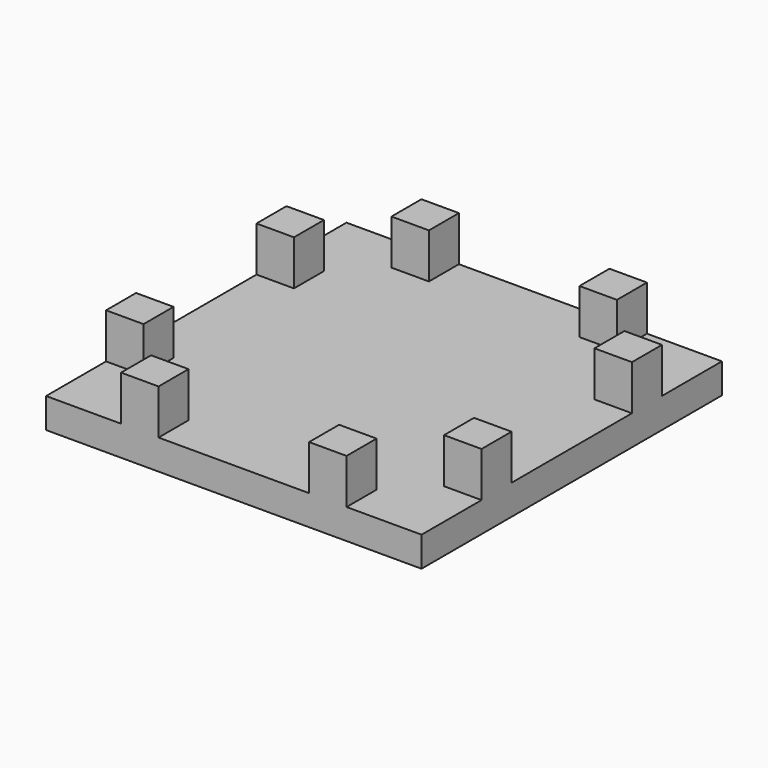
from build123d import *

# Parameters (mm, degrees)
F0_W     = 31.8008
F0_H     = 31.8008
F1_DEPTH = 2.54
F2_W     = 3.175
F2_H     = 3.175
F3_DEPTH = 3.81


with BuildPart() as f1:
    # F0 (on Top) → F1 (new body)
    with BuildSketch(Plane.XY):
        Rectangle(F0_W, F0_H)
    extrude(amount=-F1_DEPTH)

    # F2 (on Top) → F3 (join)
    with BuildSketch(Plane.XY):
        with Locations((-7.9629, 14.3129)):
            Rectangle(F2_W, F2_H)
        with Locations((-14.3129, 7.9629)):
            Rectangle(F2_W, F2_H)
        with Locations((14.3129, 7.9629)):
            Rectangle(F2_W, F2_H)
        with Locations((-14.3129, -7.9629)):
            Rectangle(F2_W, F2_H)
        with Locations((-7.9629, -14.3129)):
            Rectangle(F2_W, F2_H)
        with Locations((7.9629, 14.3129)):
            Rectangle(F2_W, F2_H)
        with Locations((14.3129, -7.9629)):
            Rectangle(F2_W, F2_H)
        with Locations((7.9629, -14.3129)):
            Rectangle(F2_W, F2_H)
    extrude(amount=F3_DEPTH)


solid = f1.part
